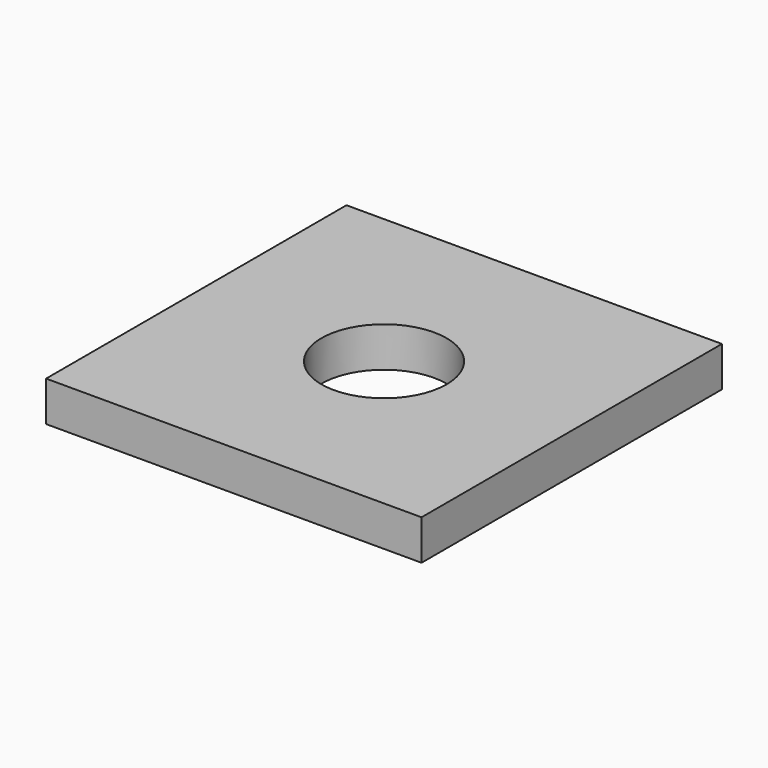
from build123d import *

# Parameters (mm, degrees)
F0_W     = 150
F0_H     = 150
F0_R     = 25
F1_DEPTH = 16


with BuildPart() as f1:
    # F0 (on Top) → F1 (new body)
    with BuildSketch(Plane.XY):
        with Locations((-52.107557, 51.845929)):
            Rectangle(F0_W, F0_H)
        with Locations((-52.107557, 51.845929)):
            Circle(F0_R, mode=Mode.SUBTRACT)
        with Locations((-52.107557, 51.845929)):
            Rectangle(F0_W, F0_H)
        with Locations((-52.107557, 51.845929)):
            Circle(F0_R, mode=Mode.SUBTRACT)
    extrude(amount=F1_DEPTH)


solid = f1.part
